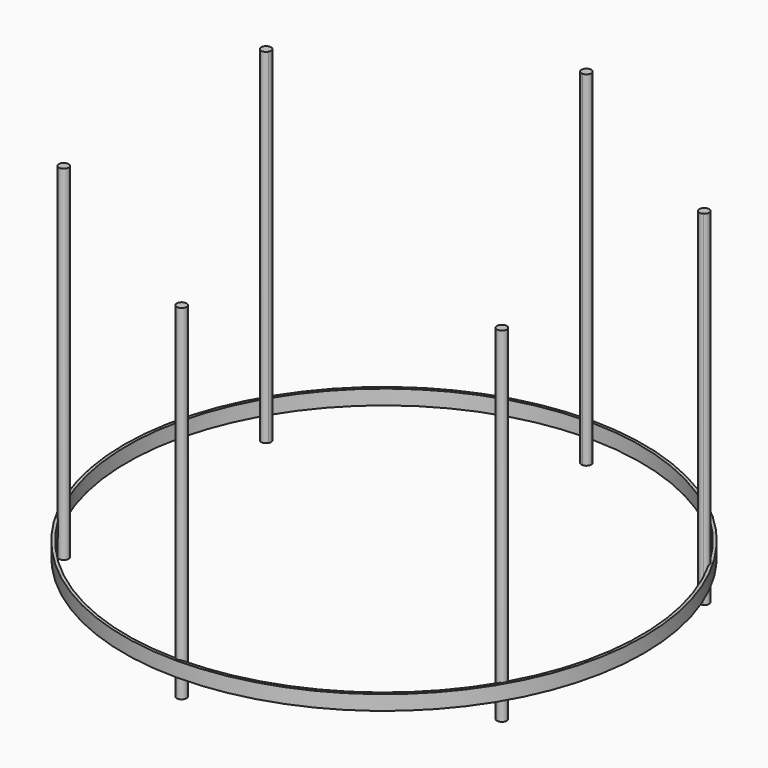
from build123d import *

# Parameters (mm, degrees)
F1_DEPTH = 350
F2_W     = 3
F2_H     = 15
F7_COUNT = 6
F7_ANGLE = 300


with BuildPart() as f1:
    # F0 (on Top) → F1 (new body)
    with BuildSketch(Plane.XY):
        with BuildLine():
            ThreePointArc((5, 257), (-3.535534, 260.535534), (0, 252))
            ThreePointArc((0, 252), (3.535534, 253.464466), (5, 257))
        make_face()
    extrude(amount=F1_DEPTH)


with BuildPart() as f1_1:
    # F5: moved
    add(f1.part.moved(Location((0, 0, -20))))

    # F2 (on Right) → F6 (revolve)
    with BuildSketch(Plane.YZ):
        with Locations((262.5, 7.5)):
            Rectangle(F2_W, F2_H)
    revolve(axis=Axis((0, 0, -57.719678), (0, 0, -1)))

    # F7: F1 ×6 about axis
    f7_axis = Axis((0, 0, -44.895653), (0, 0, -1))


with BuildPart() as f1_2:
    add(f1_1.part)
    for i in range(1, F7_COUNT):
        add(f1_1.part.rotate(f7_axis, i * F7_ANGLE / (F7_COUNT - 1)))


solid = f1_2.part
